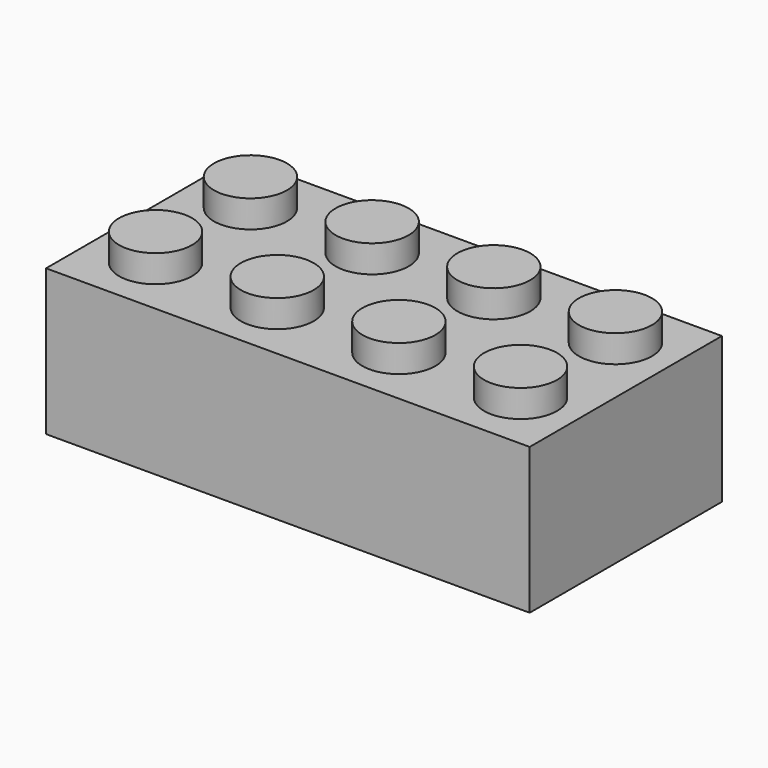
from build123d import *

# Parameters (mm, degrees)
SKETCH_W               = 47.7
SKETCH_H               = 23.7
PAD_DEPTH              = 14.4
SKETCH001_W            = 44.1
SKETCH001_H            = 20.1
POCKET_DEPTH           = 12.6
SKETCH002_R            = 3.6
PAD001_DEPTH           = 2.7
LINEARPATTERN_COUNT    = 4
LINEARPATTERN_PITCH    = 12
SKETCH003_R            = 4.8825
PAD002_DEPTH           = 12.6
LINEARPATTERN001_COUNT = 3
LINEARPATTERN001_PITCH = 12
SKETCH004_R            = 3.6
POCKET001_DEPTH        = 12.6
LINEARPATTERN002_COUNT = 3
LINEARPATTERN002_PITCH = 12


with BuildPart() as part:
    # Sketch → Pad (new body)
    with BuildSketch(Plane.XY):
        with Locations((23.85, -11.85)):
            Rectangle(SKETCH_W, SKETCH_H)
    extrude(amount=PAD_DEPTH)

    # Sketch001 (on Face5 of Pad) → Pocket (cut)
    with BuildSketch(Plane(origin=(0, 0, 0), x_dir=(1, 0, 0), z_dir=(0, 0, -1))):
        with Locations((23.85, 11.85)):
            Rectangle(SKETCH001_W, SKETCH001_H)
    extrude(amount=-POCKET_DEPTH, mode=Mode.SUBTRACT)

    # Sketch002 (on Face5 of Pocket) → Pad001 (join)
    with BuildSketch(Plane.XY.offset(14.4)):
        with Locations((6, -6)):
            Circle(SKETCH002_R)
        with Locations((6, -17.7)):
            Circle(SKETCH002_R)
    pad001 = extrude(amount=PAD001_DEPTH)

    # LinearPattern: Pad001 ×4
    with Locations(*[(i * LINEARPATTERN_PITCH, 0, 0) for i in range(1, LINEARPATTERN_COUNT)]):
        add(pad001)

    # Sketch003 (on Face19 of LinearPattern) → Pad002 (join)
    with BuildSketch(Plane(origin=(0, 0, 12.6), x_dir=(1, 0, 0), z_dir=(0, 0, -1))):
        with Locations((12, 11.7)):
            Circle(SKETCH003_R)
    pad002 = extrude(amount=PAD002_DEPTH)

    # LinearPattern001: Pad002 ×3
    with Locations(*[(i * LINEARPATTERN001_PITCH, 0, 0) for i in range(1, LINEARPATTERN001_COUNT)]):
        add(pad002)

    # Sketch004 (on Face32 of LinearPattern001) → Pocket001 (cut)
    with BuildSketch(Plane(origin=(0, 0, 0), x_dir=(1, 0, 0), z_dir=(0, 0, -1))):
        with Locations((12, 11.7)):
            Circle(SKETCH004_R)
    pocket001 = extrude(amount=-POCKET001_DEPTH, mode=Mode.SUBTRACT)

    # LinearPattern002: Pocket001 ×3
    with Locations(*[(i * LINEARPATTERN002_PITCH, 0, 0) for i in range(1, LINEARPATTERN002_COUNT)]):
        add(pocket001, mode=Mode.SUBTRACT)


solid = part.part
